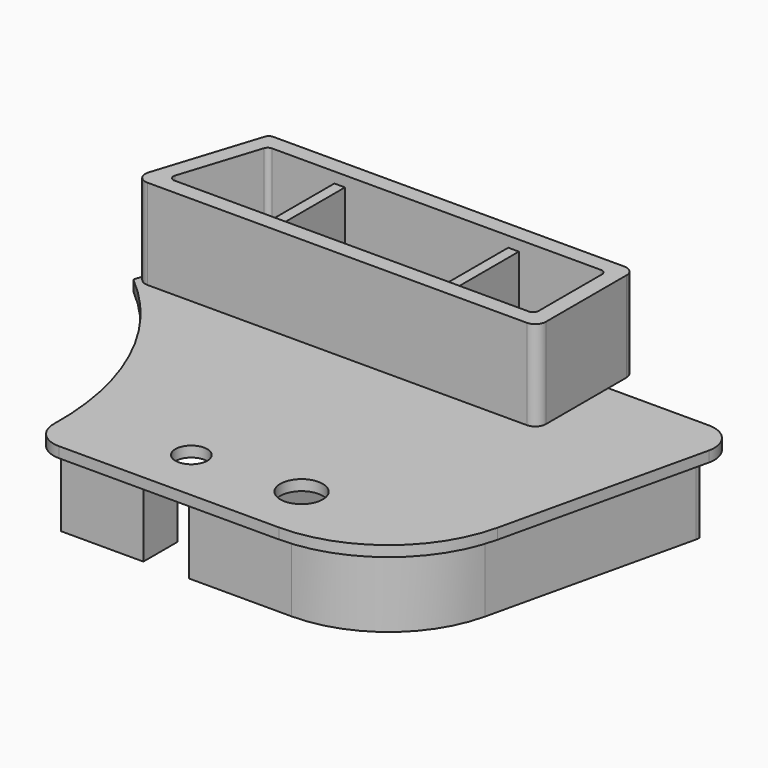
from build123d import *

# Parameters (mm, degrees)
F1_DEPTH = 17
F0_W     = 2
F0_H     = 17
F2_DEPTH = 15
F0_W_2   = 30.8
F3_DEPTH = 1
F4_R     = 3
F4_R_2   = 4
F4_R_3   = 2
F5_DEPTH = 2
F6_DEPTH = 25
F8_DEPTH = 16


with BuildPart() as f1:
    # F0 (on Top) → F1 (new body)
    with BuildSketch(Plane.XY):
        with BuildLine():
            Line((-2, 0), (-68.2691728501, 0))
            ThreePointArc((-68.2691728501, 0), (-68.8592199223, -0.1926311546), (-69.221944097, -0.6963110949))
            Line((-69.221944097, -0.6963110949), (-75.5, -20.3926221898))
            ThreePointArc((-75.5, -20.3926221898), (-75.209195197, -22.1800941445), (-73.5944575062, -23))
            Line((-73.5944575062, -23), (-2, -23))
            ThreePointArc((-2, -23), (-0.5857864376, -22.4142135624), (0, -21))
            Line((0, -21), (0, -2))
            ThreePointArc((0, -2), (-0.5857864376, -0.5857864376), (-2, 0))
        make_face()
        with BuildLine():
            ThreePointArc((-67.0294626472, -3.6963110949), (-66.6667384725, -3.1926311546), (-66.0766914003, -3))
            Line((-66.0766914003, -3), (-54.3, -3))
            Line((-54.3, -3), (-52.3, -3))
            Line((-52.3, -3), (-21.5, -3))
            Line((-21.5, -3), (-19.5, -3))
            Line((-19.5, -3), (-4, -3))
            ThreePointArc((-4, -3), (-3.2928932188, -3.2928932188), (-3, -4))
            Line((-3, -4), (-3, -19))
            ThreePointArc((-3, -19), (-3.2928932188, -19.7071067812), (-4, -20))
            Line((-4, -20), (-19.5, -20))
            Line((-19.5, -20), (-21.5, -20))
            Line((-21.5, -20), (-52.3, -20))
            Line((-52.3, -20), (-54.3, -20))
            Line((-54.3, -20), (-70.8578322998, -20))
            ThreePointArc((-70.8578322998, -20), (-71.6652011452, -19.5900470722), (-71.8106035467, -18.6963110949))
            Line((-71.8106035467, -18.6963110949), (-67.0294626472, -3.6963110949))
        make_face(mode=Mode.SUBTRACT)
    extrude(amount=F1_DEPTH)

    # F0 (on Top) → F2 (join)
    with BuildSketch(Plane.XY):
        with Locations((-53.3, -11.5)):
            Rectangle(F0_W, F0_H)
        with Locations((-20.5, -11.5)):
            Rectangle(F0_W, F0_H)
    extrude(amount=F2_DEPTH)

    # F0 (on Top) → F3 (join)
    with BuildSketch(Plane.XY):
        with BuildLine():
            Line((-54.3, -3), (-66.0766914003, -3))
            ThreePointArc((-66.0766914003, -3), (-66.6667384725, -3.1926311546), (-67.0294626472, -3.6963110949))
            Line((-67.0294626472, -3.6963110949), (-71.8106035467, -18.6963110949))
            ThreePointArc((-71.8106035467, -18.6963110949), (-71.6652011452, -19.5900470722), (-70.8578322998, -20))
            Line((-70.8578322998, -20), (-54.3, -20))
            Line((-54.3, -20), (-54.3, -3))
        make_face()
        with Locations((-36.9, -11.5)):
            Rectangle(F0_W_2, F0_H)
        with BuildLine():
            Line((-4, -3), (-19.5, -3))
            Line((-19.5, -3), (-19.5, -20))
            Line((-19.5, -20), (-4, -20))
            ThreePointArc((-4, -20), (-3.2928932188, -19.7071067812), (-3, -19))
            Line((-3, -19), (-3, -4))
            ThreePointArc((-3, -4), (-3.2928932188, -3.2928932188), (-4, -3))
        make_face()
    extrude(amount=F3_DEPTH)

    # F4 (on Top) → F5 (join)
    with BuildSketch(Plane.XY):
        with BuildLine():
            ThreePointArc((24, -12.5858614946), (23.0159698309, -8.2370738953), (19, -6.3))
            Line((19, -6.3), (-36.3860578131, -6.3))
            Line((-36.3860578131, -6.3), (-39.7084973779, -6.3))
            ThreePointArc((-39.7084973779, -6.3), (-38.5513841423, -8.3396204816), (-38.15, -10.65))
            ThreePointArc((-38.15, -10.65), (-47.3103795184, -17.0986158577), (-50.2915026221, -6.3))
            Line((-50.2915026221, -6.3), (-71.0080791799, -6.3))
            Line((-71.0080791799, -6.3), (-76.3035875518, -22.9137386762))
            ThreePointArc((-76.3035875518, -22.9137386762), (-61.5627251362, -42.3229885458), (-56.656298365, -66.1963833943))
            ThreePointArc((-56.656298365, -66.1963833943), (-55.2293521755, -69.7987081167), (-51.6573721204, -71.3))
            Line((-51.6573721204, -71.3), (-10.156298365, -71.3))
            ThreePointArc((-10.156298365, -71.3), (5.9662681641, -65.6697477172), (15.0790057851, -51.2269327109))
            Line((15.0790057851, -51.2269327109), (24, -12.5858614946))
        make_face()
        with Locations((-34.656298365, -61.3)):
            Circle(F4_R, mode=Mode.SUBTRACT)
        with Locations((-14.656298365, -60.3)):
            Circle(F4_R_2, mode=Mode.SUBTRACT)
        with Locations((-34.15, -10.65)):
            Circle(F4_R_3, mode=Mode.SUBTRACT)
        with BuildLine():
            Line((-39.7084973779, -6.3), (-36.3860578131, -6.3))
            ThreePointArc((-36.3860578131, -6.3), (-39.9430740563, -2.4311192976), (-45, -1))
            Line((-45, -1), (-69.3187427266, -1))
            Line((-69.3187427266, -1), (-71.0080791799, -6.3))
            Line((-71.0080791799, -6.3), (-50.2915026221, -6.3))
            ThreePointArc((-50.2915026221, -6.3), (-45, -3.8), (-39.7084973779, -6.3))
        make_face()
    extrude(amount=-F5_DEPTH)

    # F6 (cut): faces of the model
    f6_faces = [f1.faces().sort_by_distance(p)[0] for p in [
        (-45, -10.65, 0),
        (-34.15, -10.65, 0),
    ]]
    extrude(f6_faces, amount=-F6_DEPTH, mode=Mode.SUBTRACT)

    # F7 (on Top) → F8 (join)
    with BuildSketch(Plane.XY):
        with BuildLine():
            Line((-29.5, -68.3), (-10.156298365, -68.3))
            ThreePointArc((-10.156298365, -68.3), (4.0987242542, -63.3219232466), (12.1558955908, -50.5520795479))
            Line((12.1558955908, -50.5520795479), (21.0768898056, -11.9110083316))
            ThreePointArc((21.0768898056, -11.9110083316), (21.1260119747, -11.5846639084), (21.1241694926, -11.2546483401))
            ThreePointArc((21.1241694926, -11.2546483401), (21.0354701794, -11.0733493387), (20.8474362182, -11))
            Line((20.8474362182, -11), (-29.5, -11))
            Line((-29.5, -11), (-29.5, -68.3))
        make_face()
        with BuildLine():
            Line((-10.156298365, -66.3), (-27.5, -66.3))
            Line((-27.5, -66.3), (-27.5, -13))
            Line((-27.5, -13), (18.7728680534, -13))
            Line((18.7728680534, -13), (10.2071554612, -50.1021774392))
            ThreePointArc((10.2071554612, -50.1021774392), (2.8536949809, -61.7567069329), (-10.156298365, -66.3))
        make_face(mode=Mode.SUBTRACT)
        with BuildLine():
            Line((-53.6031346189, -68.3), (-38.1031346189, -68.3))
            Line((-38.1031346189, -68.3), (-38.1031346189, -60.3))
            Line((-38.1031346189, -60.3), (-40.5031346189, -60.3))
            Line((-40.5031346189, -60.3), (-40.5031346189, -65.9))
            Line((-40.5031346189, -65.9), (-51.2102166135, -65.9))
            Line((-51.2102166135, -65.9), (-51.2501856031, -65.886270575))
            ThreePointArc((-51.2501856031, -65.886270575), (-55.5697599064, -42.3552473048), (-68.6864102541, -22.3472173679))
            ThreePointArc((-68.6864102541, -22.3472173679), (-66.0038303781, -15.8365100283), (-64.7912408019, -8.9))
            Line((-64.7912408019, -8.9), (-57.25, -8.9))
            Line((-57.25, -8.9), (-57.25, -10.65))
            ThreePointArc((-57.25, -10.65), (-53.8370668211, -19.1334397505), (-45.5, -22.8897916649))
            ThreePointArc((-45.5, -22.8897916649), (-45.2500520996, -22.8974476503), (-45, -22.9))
            Line((-45, -22.9), (-43.1, -22.9))
            Line((-43.1, -22.9), (-33.2, -22.9))
            Line((-33.2, -22.9), (-33.2, -20.5))
            Line((-33.2, -20.5), (-45, -20.5))
            ThreePointArc((-45, -20.5), (-51.9650017947, -17.6150017947), (-54.85, -10.65))
            Line((-54.85, -10.65), (-54.85, -6.5))
            Line((-54.85, -6.5), (-67.1262612777, -6.5))
            ThreePointArc((-67.1262612777, -6.5), (-68.2643194585, -15.0127044985), (-71.7676746543, -22.8541212502))
            ThreePointArc((-71.7676746543, -22.8541212502), (-58.1079401486, -42.5901979394), (-53.6031346189, -66.1657742205))
            Line((-53.6031346189, -66.1657742205), (-53.6031346189, -68.3))
        make_face()
        with BuildLine():
            Line((-43.1, -28), (-43.1, -22.9))
            Line((-43.1, -22.9), (-45, -22.9))
            ThreePointArc((-45, -22.9), (-45.2500520996, -22.8974476503), (-45.5, -22.8897916649))
            Line((-45.5, -22.8897916649), (-45.5, -28))
            Line((-45.5, -28), (-43.1, -28))
        make_face()
    extrude(amount=-F8_DEPTH)


solid = f1.part
